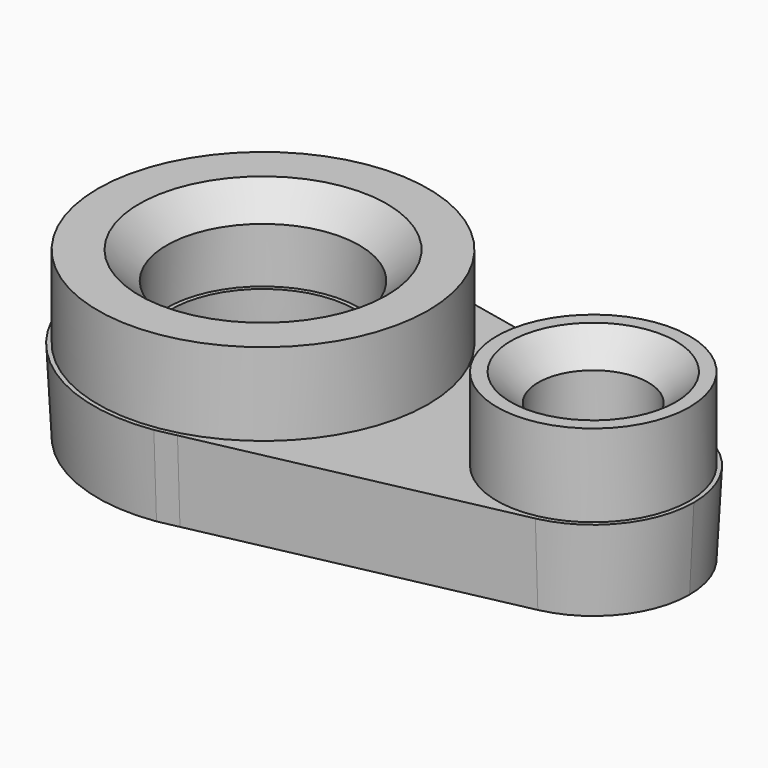
from build123d import *

# Parameters (mm, degrees)
F0_R     = 8.89
F0_R_2   = 5.08
F1_DEPTH = 7.62
F1_TAPER = -3
F2_R     = 15.24
F2_R_2   = 8.89
F2_R_3   = 5.08
F3_DEPTH = 7.62
F4_SIZE  = 2.54


with BuildPart() as f1:
    # F0 (on Top) → F1 (new body)
    with BuildSketch(Plane.XY):
        with BuildLine():
            ThreePointArc((4.0809852702, -14.6834314526), (12.1336683554, -9.2212630502), (15.24, 0))
            ThreePointArc((15.24, 0), (11.8457713974, 9.5882897328), (3.175, 14.9056021348))
            ThreePointArc((3.175, 14.9056021348), (-15.2323925132, 0.4814751535), (2.2273110086, -15.0763618181))
            Line((2.2273110086, -15.0763618181), (4.0809852702, -14.6834314526))
        make_face()
        Circle(F0_R, mode=Mode.SUBTRACT)
        with BuildLine():
            ThreePointArc((39.37, 0), (37.3900333152, 5.5931690108), (32.3320833333, 8.6949345786))
            ThreePointArc((32.3320833333, 8.6949345786), (21.5900010863, 0.0043948805), (32.323485534, -8.6967615286))
            ThreePointArc((32.323485534, -8.6967615286), (37.3872674191, -5.5965843871), (39.37, 0))
        make_face()
        with Locations((30.48, 0)):
            Circle(F0_R_2, mode=Mode.SUBTRACT)
        with BuildLine():
            ThreePointArc((3.175, 14.9056021348), (11.8457713974, 9.5882897328), (15.24, 0))
            ThreePointArc((15.24, 0), (12.1336683554, -9.2212630502), (4.0809852702, -14.6834314526))
            Line((4.0809852702, -14.6834314526), (32.323485534, -8.6967615286))
            ThreePointArc((32.323485534, -8.6967615286), (21.5900010863, 0.0043948805), (32.3320833333, 8.6949345786))
            Line((32.3320833333, 8.6949345786), (3.175, 14.9056021348))
        make_face()
    extrude(amount=F1_DEPTH, taper=F1_TAPER)

    # F2 (on face) → F3 (join)
    with BuildSketch(Plane.XY.offset(7.62)):
        Circle(F2_R)
        Circle(F2_R_2, mode=Mode.SUBTRACT)
        with Locations((30.48, 0)):
            Circle(F2_R_2)
        with Locations((30.48, 0)):
            Circle(F2_R_3, mode=Mode.SUBTRACT)
    extrude(amount=F3_DEPTH)

    # F4
    f4_edges = [f1.edges().sort_by_distance(p)[0] for p in [
        (-8.89, 0, 15.24),
        (25.4, 0, 15.24),
    ]]
    chamfer(f4_edges, length=F4_SIZE)


solid = f1.part
